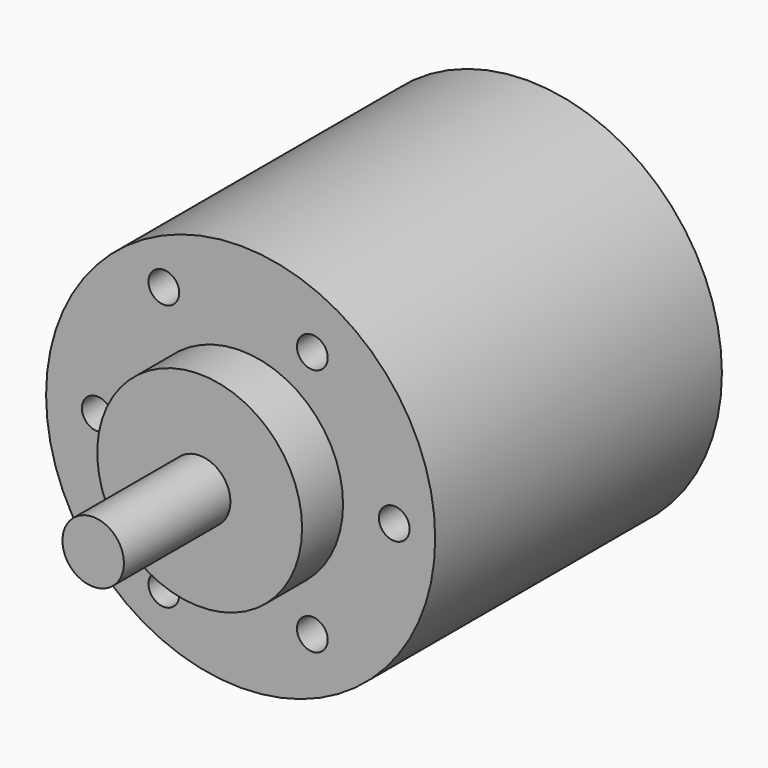
from build123d import *

# Parameters (mm, degrees)
F0_R     = 19
F1_DEPTH = 35
F2_R     = 10
F3_DEPTH = 5
F4_R     = 3
F5_DEPTH = 13
F6_R     = 1.5
F7_DEPTH = 5


with BuildPart() as f1:
    # F0 (on Front) → F1 (new body)
    with BuildSketch(Plane.XZ):
        Circle(F0_R)
    extrude(amount=F1_DEPTH)

    # F2 (on face) → F3 (join)
    with BuildSketch(Plane.XZ.offset(35)):
        Circle(F2_R)
    extrude(amount=F3_DEPTH)

    # F4 (on face) → F5 (join)
    with BuildSketch(Plane.XZ.offset(40)):
        Circle(F4_R)
    extrude(amount=F5_DEPTH)

    # F6 (on face) → F7 (cut)
    with BuildSketch(Plane.XZ.offset(35)):
        with Locations((-7.5, 12.990381)):
            Circle(F6_R)
        with Locations((-14, 0)):
            Circle(F6_R)
        with Locations((-7.5, -12.990381)):
            Circle(F6_R)
        with Locations((7, -12.124356)):
            Circle(F6_R)
        with Locations((15, 0)):
            Circle(F6_R)
        with Locations((7, 12.124356)):
            Circle(F6_R)
    extrude(amount=-F7_DEPTH, mode=Mode.SUBTRACT)


solid = f1.part
